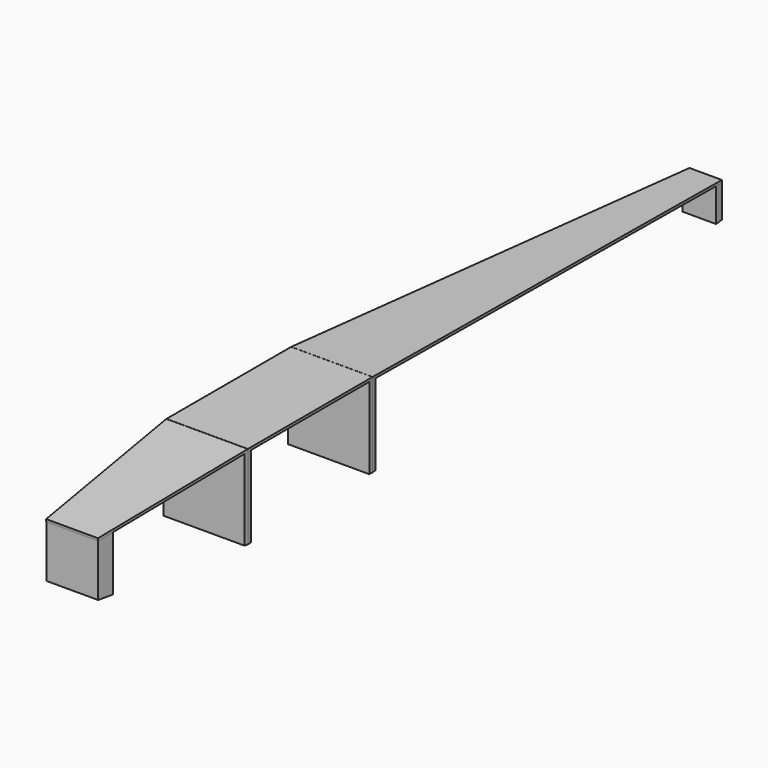
from build123d import *

# Parameters (mm, degrees)
F0_W       = 20
F0_H       = 20
F1_DEPTH   = 6.5
F1_TAPER   = -5
F4_DEPTH   = 1
F5_W       = 31.3735262584
F5_H       = 31.3735262584
F6_DEPTH   = 1.5
F6_FACE_W  = 31.3735262584
F6_FACE_H  = 31.3735262584
F7_DEPTH   = 1.5
F7_TAPER   = 5
F9_W       = 31.3735262584
F9_H       = 60
F10_DEPTH  = 1
F11_W      = 31.3735262584
F11_H      = 31.3735262584
F12_DEPTH  = 1.5
F12_FACE_W = 31.3735262584
F12_FACE_H = 31.3735262584
F13_DEPTH  = 1.5
F13_TAPER  = 3
F16_DEPTH  = 1
F17_W      = 12.5067257165
F17_H      = 12.5067257165
F18_DEPTH  = 3
F18_TAPER  = -3


with BuildPart() as f1:
    # F0 (on Front) → F1 (new body)
    with BuildSketch(Plane.XZ):
        Rectangle(F0_W, F0_H)
    extrude(amount=-F1_DEPTH, taper=F1_TAPER)


with BuildPart() as f4:
    # F3 (on face) → F4 (new body)
    with BuildSketch(Plane(origin=(0, -0.8682408883, 9.9240387651), x_dir=(1, 0, 0), z_dir=(0, -0.0871557427, 0.9961946981))):
        Polygon((15.6867631292, 66.1198468678), (-15.6867631292, 66.1198468678), (-10, 0.8715574275), (10, 0.8715574275), align=None)
    extrude(amount=F4_DEPTH)


with BuildPart() as f6:
    # F5 (on offset) → F6 (new body)
    with BuildSketch(Plane.XZ.offset(-65)):
        Rectangle(F5_W, F5_H)
    extrude(amount=-F6_DEPTH)

    # F6_face (on face) → F7 (join)
    with BuildSketch(Plane.XZ.offset(-65)):
        Rectangle(F6_FACE_W, F6_FACE_H)
    extrude(amount=F7_DEPTH, taper=F7_TAPER)


with BuildPart() as f10:
    # F9 (on face) → F10 (new body)
    with BuildSketch(Plane.XY.offset(15.6867631292)):
        with Locations((0, 95)):
            Rectangle(F9_W, F9_H)
    extrude(amount=F10_DEPTH)


with BuildPart() as f12:
    # F11 (on offset) → F12 (new body)
    with BuildSketch(Plane.XZ.offset(-125)):
        Rectangle(F11_W, F11_H)
    extrude(amount=F12_DEPTH)

    # F12_face (on face) → F13 (join)
    with BuildSketch(Plane(origin=(0, 125, 0), x_dir=(1, 0, 0), z_dir=(0, 1, 0))):
        Rectangle(F12_FACE_W, F12_FACE_H)
    extrude(amount=F13_DEPTH, taper=F13_TAPER)


with BuildPart() as f16:
    # F15 (on face) → F16 (new body)
    with BuildSketch(Plane(origin=(0, 1.1622381613, 22.1768252185), x_dir=(1, 0, 0), z_dir=(0, 0.0523359562, 0.9986295348))):
        Polygon((-15.6867631292, 124.0077100956), (15.6867631292, 124.0077100956), (6.2533628582, 304.2547323752), (-6.2533628582, 304.2547323752), align=None)
    extrude(amount=F16_DEPTH)


with BuildPart() as f18:
    # F17 (on offset) → F18 (new body)
    with BuildSketch(Plane.XZ.offset(-305)):
        Rectangle(F17_W, F17_H)
    extrude(amount=F18_DEPTH, taper=F18_TAPER)


solid = Compound([f1.part, f4.part, f6.part, f10.part, f12.part, f16.part, f18.part])
